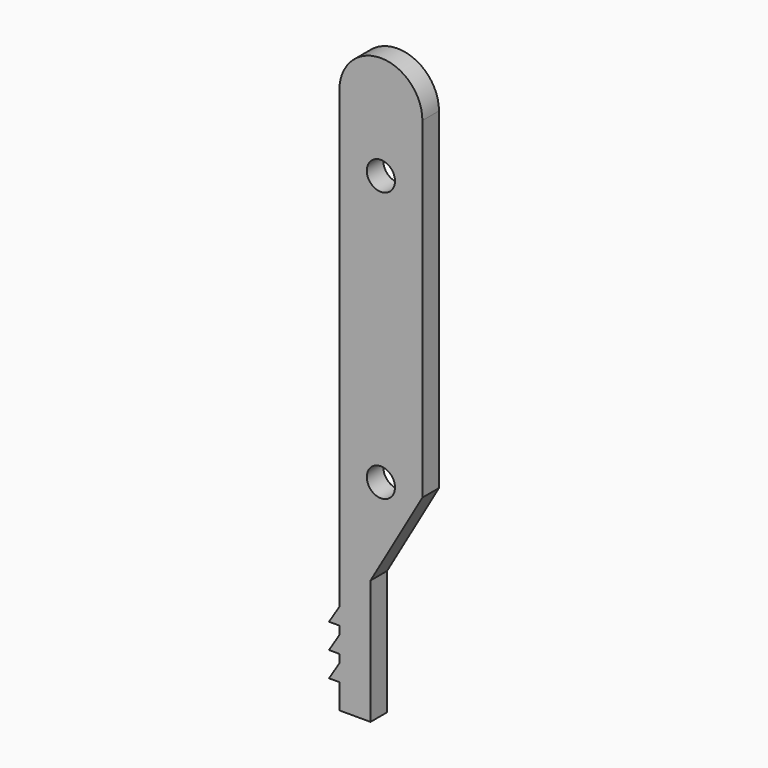
from build123d import *

# Parameters (mm, degrees)
F0_R     = 2.159
F1_DEPTH = 3.175


with BuildPart() as f1:
    # F0 (on Front) → F1 (new body)
    with BuildSketch(Plane.XZ):
        with BuildLine():
            ThreePointArc((4.191, 0), (6.35, 2.159), (8.509, 0))
            Line((8.509, 0), (12.7, 0))
            Line((12.7, 0), (12.7, 50.8))
            Line((12.7, 50.8), (0, 50.8))
            Line((0, 50.8), (0, 0))
            Line((0, 0), (4.191, 0))
        make_face()
        with Locations((6.35, 41.275)):
            Circle(F0_R, mode=Mode.SUBTRACT)
        with BuildLine():
            Line((12.7, 0), (8.509, 0))
            ThreePointArc((8.509, 0), (6.35, -2.159), (4.191, 0))
            Line((4.191, 0), (0, 0))
            Line((0, 0), (0, -18.828153))
            Line((0, -18.828153), (0, -21.368153))
            Line((0, -21.368153), (0, -22.638153))
            Line((0, -22.638153), (0, -25.178153))
            Line((0, -25.178153), (0, -26.448153))
            Line((0, -26.448153), (0, -28.988153))
            Line((0, -28.988153), (0, -32.798153))
            Line((0, -32.798153), (4.7625, -32.798153))
            Line((4.7625, -32.798153), (4.7625, -13.748153))
            Line((4.7625, -13.748153), (12.7, 0))
        make_face()
        with BuildLine():
            Line((0, 50.8), (12.7, 50.8))
            ThreePointArc((12.7, 50.8), (6.35, 57.15), (0, 50.8))
        make_face()
        Polygon((0, -21.368153), (0, -18.828153), (-1.5875, -21.368153), align=None)
        Polygon((-1.5875, -28.988153), (0, -28.988153), (0, -26.448153), align=None)
        Polygon((0, -25.178153), (0, -22.638153), (-1.5875, -25.178153), align=None)
    extrude(amount=F1_DEPTH)


solid = f1.part
